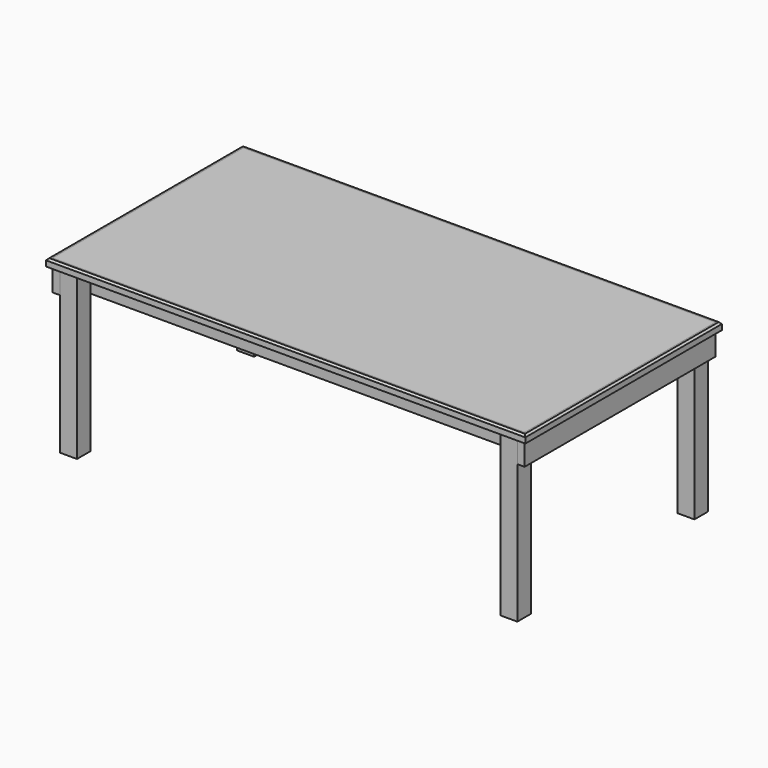
from build123d import *

# Parameters (mm, degrees)
F0_W     = 2463.8
F0_H     = 1244.6
F1_DEPTH = 19.05
F0_W_2   = 2501.9
F0_H_2   = 1282.7
F2_DEPTH = 38.1
F3_SIZE  = 9.525
F4_W     = 2387.6
F4_H     = 990.6
F5_DEPTH = 139.7
F6_W     = 88.9
F6_H     = 88.9
F7_DEPTH = 863.6


with BuildPart() as f1:
    # F0 (on Top) → F1 (new body)
    with BuildSketch(Plane.XY):
        Rectangle(F0_W, F0_H)
    extrude(amount=-F1_DEPTH)


with BuildPart() as f2:
    # F0 (on Top) → F2 (new body)
    with BuildSketch(Plane.XY):
        Rectangle(F0_W_2, F0_H_2)
        Rectangle(F0_W, F0_H, mode=Mode.SUBTRACT)
    extrude(amount=-F2_DEPTH)

    # F3
    f3_edges = [f2.edges().sort_by_distance(p)[0] for p in [
        (0, -641.35, 0),
        (-1250.95, 0, 0),
        (0, 641.35, 0),
        (1250.95, 0, 0),
    ]]
    chamfer(f3_edges, length=F3_SIZE)


with BuildPart() as f5:
    # F4 (on face) → F5 (new body)
    with BuildSketch(Plane(origin=(0, 0, -19.05), x_dir=(1, 0, 0), z_dir=(0, 0, -1))):
        Polygon((-1193.8, 622.3), (-1231.9, 622.3), (-1231.9, -622.3), (-1193.8, -622.3), (-1193.8, -533.4), (1193.8, -533.4), (1193.8, -622.3), (1231.9, -622.3), (1231.9, 622.3), (1193.8, 622.3), (1193.8, 533.4), (-1193.8, 533.4), align=None)
        Rectangle(F4_W, F4_H, mode=Mode.SUBTRACT)
    extrude(amount=F5_DEPTH)


with BuildPart() as f7:
    # F6 (on face) → F7 (new body)
    with BuildSketch(Plane(origin=(0, 0, -19.05), x_dir=(1, 0, 0), z_dir=(0, 0, -1))):
        with Locations((-1149.35, -577.85)):
            Rectangle(F6_W, F6_H)
        with Locations((-1149.35, 577.85)):
            Rectangle(F6_W, F6_H)
        with Locations((1149.35, -577.85)):
            Rectangle(F6_W, F6_H)
        with Locations((1149.35, 577.85)):
            Rectangle(F6_W, F6_H)
    extrude(amount=F7_DEPTH)


solid = Compound([f1.part, f2.part, f5.part, f7.part])
